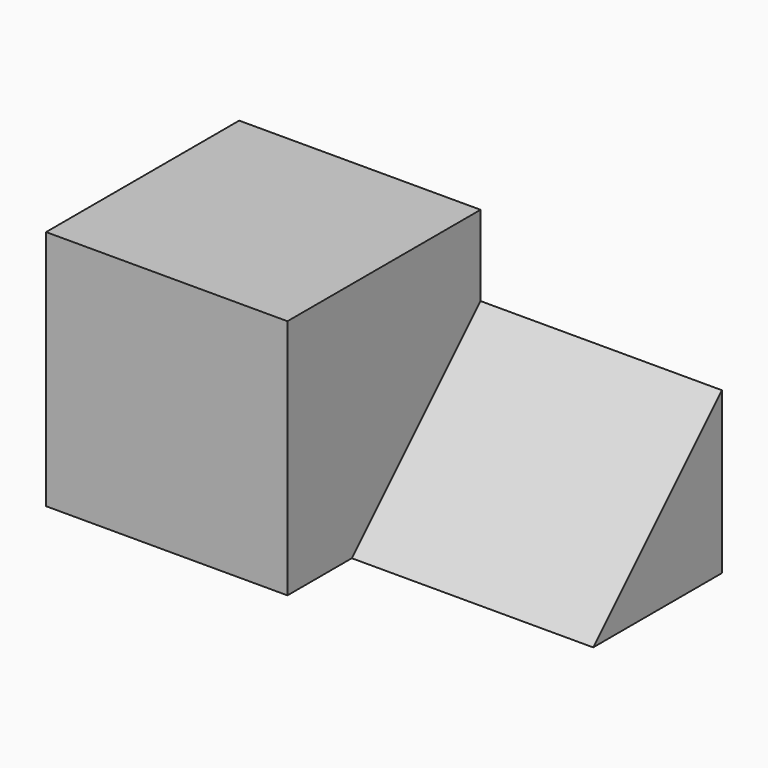
from build123d import *

# Parameters (mm, degrees)
F0_W     = 30
F0_H     = 15
F1_DEPTH = 15
F2_W     = 15
F2_H     = 15
F3_DEPTH = 5
F4_W     = 10
F4_H     = 4.995112
F5_DEPTH = 15
F7_DEPTH = 15


with BuildPart() as f1:
    # F0 (on Top) → F1 (new body)
    with BuildSketch(Plane.XY):
        with Locations((-11.458107, -42.121633)):
            Rectangle(F0_W, F0_H)
    extrude(amount=F1_DEPTH)

    # F2 (on face) → F3 (cut)
    with BuildSketch(Plane.XZ.offset(49.621633)):
        with Locations((-3.958107, 7.5)):
            Rectangle(F2_W, F2_H)
    extrude(amount=-F3_DEPTH, mode=Mode.SUBTRACT)

    # F4 (on face) → F5 (cut)
    with BuildSketch(Plane.YZ.offset(3.541893)):
        with Locations((-39.621633, 12.502444)):
            Rectangle(F4_W, F4_H)
    extrude(amount=-F5_DEPTH, mode=Mode.SUBTRACT)

    # F6 (on face) → F7 (cut)
    with BuildSketch(Plane.YZ.offset(3.541893)):
        Polygon((-44.621633, 10.004888), (-44.621633, 0), (-34.621633, 10.004888), align=None)
    extrude(amount=-F7_DEPTH, mode=Mode.SUBTRACT)


solid = f1.part
